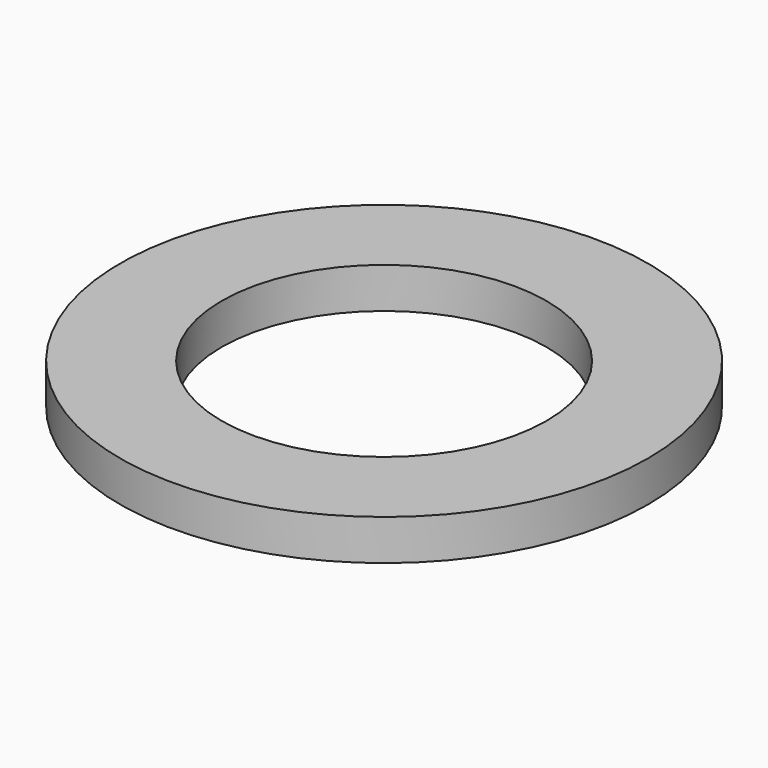
from build123d import *

# Parameters (mm, degrees)
CYLINDER007_R     = 0.4
CYLINDER007_DEPTH = 0.1
CYLINDER006_R     = 0.65
CYLINDER006_DEPTH = 0.1


with BuildPart() as cylinder007:
    # Cylinder007 → Cylinder007 (new body)
    with BuildSketch(Plane.XY.offset(1.62)):
        Circle(CYLINDER007_R)
    extrude(amount=CYLINDER007_DEPTH)


with BuildPart() as cut003:
    # Cylinder006 → Cylinder006 (new body)
    with BuildSketch(Plane.XY.offset(1.62)):
        Circle(CYLINDER006_R)
    extrude(amount=CYLINDER006_DEPTH)

    # Cut003: cut Cylinder007
    add(cylinder007.part, mode=Mode.SUBTRACT)


with BuildPart() as cut003_1:
    # Cut003 placement: moved
    add(cut003.part.moved(Location((1.1, 12.7, 0))))


solid = cut003_1.part
